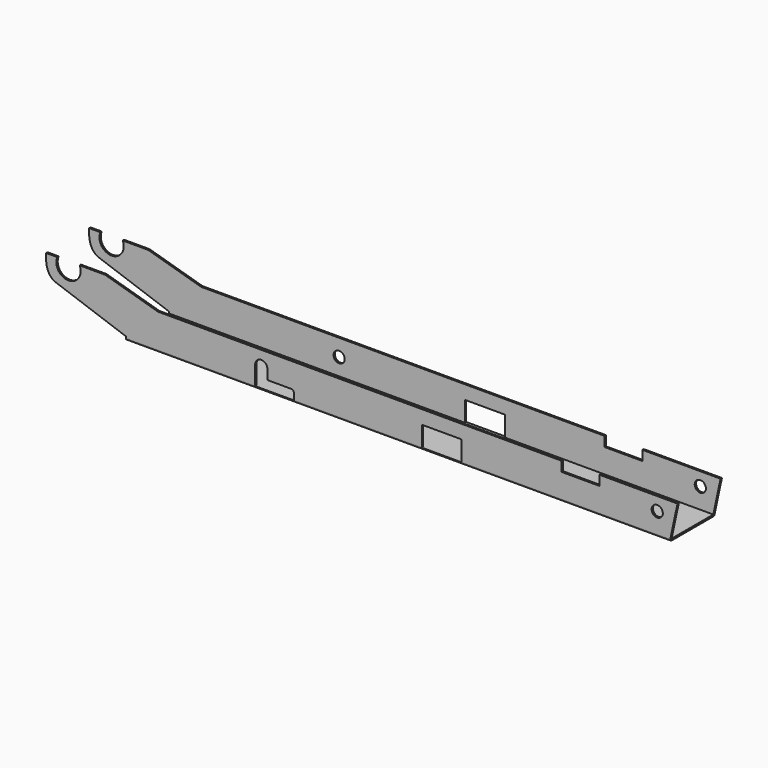
from build123d import *

# Parameters (mm, degrees)
F3_DEPTH  = 0.25
F4_DEPTH  = 0.25
F5_W      = 80.37
F5_H      = 7.7
F6_DEPTH  = 0.25
F8_DEPTH  = 80.37
F10_DEPTH = 80.37
F12_DEPTH = 8.2010001
F13_R     = 0.825
F14_DEPTH = 2


with BuildPart() as f3:
    # F0 (on Front) → F3 (new body)
    with BuildSketch(Plane.XZ):
        with BuildLine():
            Line((-40.185, 0.25), (-40.185, 0))
            Line((-40.185, 0), (-21.105, 0))
            Line((-21.105, 0), (-21.105, 2.7953359774))
            ThreePointArc((-21.105, 2.7953359774), (-20.2003359774, 3.7), (-19.2956719548, 2.7953359774))
            Line((-19.2956719548, 2.7953359774), (-19.2956719548, 1.3671361376))
            Line((-19.2956719548, 1.3671361376), (-15.7349420673, 1.3671361376))
            ThreePointArc((-15.7349420673, 1.3671361376), (-15.5016377941, 1.2704983434), (-15.405, 1.0371940702))
            Line((-15.405, 1.0371940702), (-15.405, 0))
            Line((-15.405, 0), (3.495, 0))
            Line((3.495, 0), (3.495, 2.98))
            Line((3.495, 2.98), (9.395, 2.98))
            Line((9.395, 2.98), (9.395, 0))
            Line((9.395, 0), (40.185, 0))
            Line((40.185, 0), (41.255, 5))
            Line((41.255, 5), (29.705, 5))
            Line((29.705, 5), (29.705, 3.55))
            Line((29.705, 3.55), (24.125, 3.55))
            Line((24.125, 3.55), (24.125, 5))
            Line((24.125, 5), (-35.445, 5))
            Line((-35.445, 5), (-43.265, 7.26))
            Line((-43.265, 7.26), (-47.025, 7.26))
            ThreePointArc((-47.025, 7.26), (-48.675, 4.76), (-50.325, 7.26))
            Line((-50.325, 7.26), (-51.985, 7.26))
            Line((-51.985, 7.26), (-51.985, 6.2604746746))
            add(Edge.make_bspline(
                [(-51.985, 6.2604746746), (-51.8611107918, 4.7384496413), (-51.1533093269, 4.1423325476), (-50.6568033495, 3.9383888915)],
                knots=[0.5835535338, 0.5835535338, 0.5835535338, 0.5835535338, 3.577318367, 3.577318367, 3.577318367, 3.577318367], degree=3))
            Line((-50.6568033495, 3.9383888915), (-40.185, 0.25))
        make_face()
    extrude(amount=F3_DEPTH)



with BuildPart() as f4:
    # F2 (on offset) → F4 (new body)
    with BuildSketch(Plane.XZ.offset(-7.7)):
        with BuildLine():
            Line((3.495, 2.98), (9.395, 2.98))
            Line((9.395, 2.98), (9.395, 0))
            Line((9.395, 0), (40.185, 0))
            Line((40.185, 0), (41.255, 5))
            Line((41.255, 5), (29.705, 5))
            Line((29.705, 5), (29.705, 3.55))
            Line((29.705, 3.55), (24.125, 3.55))
            Line((24.125, 3.55), (24.125, 5))
            Line((24.125, 5), (-35.445, 5))
            Line((-35.445, 5), (-43.265, 7.26))
            Line((-43.265, 7.26), (-47.025, 7.26))
            ThreePointArc((-47.025, 7.26), (-48.675, 4.76), (-50.325, 7.26))
            Line((-50.325, 7.26), (-51.985, 7.26))
            Line((-51.985, 7.26), (-51.985, 6.2604746746))
            add(Edge.make_bspline(
                [(-51.985, 6.2604746746), (-51.8611107918, 4.7384496413), (-51.1533093269, 4.1423325476), (-50.6568033495, 3.9383888915)],
                knots=[0.1631259715, 0.1631259715, 0.1631259715, 0.1631259715, 1, 1, 1, 1], degree=3))
            Line((-50.6568033495, 3.9383888915), (-40.185, 0.25))
            Line((-40.185, 0.25), (-40.185, 0))
            Line((-40.185, 0), (-21.105, 0))
            Line((-21.105, 0), (-15.405, 0))
            Line((-15.405, 0), (3.495, 0))
            Line((3.495, 0), (3.495, 2.98))
        make_face()
    extrude(amount=-F4_DEPTH)


with BuildPart() as f6:
    # F5 (on Top) → F6 (new body)
    with BuildSketch(Plane.XY):
        with Locations((0, 3.85)):
            Rectangle(F5_W, F5_H)
    extrude(amount=-F6_DEPTH)


with BuildPart() as f3_1:
    add(f3.part)

    add(f6.part)  # F8 merges F6
    # F7 (on face) → F8 (join, through all)
    with BuildSketch(Plane(origin=(-40.185, 0, 0), x_dir=(0, -1, 0), z_dir=(-1, 0, 0))):
        with BuildLine():
            Line((0, 0), (0, -0.25))
            ThreePointArc((0, -0.25), (0.1767766953, -0.1767766953), (0.25, 0))
            Line((0.25, 0), (0, 0))
        make_face()
    extrude(amount=-F8_DEPTH)


    add(f4.part)  # F10 merges F4
    # F9 (on face) → F10 (join, through all)
    with BuildSketch(Plane(origin=(-40.185, 0, 0), x_dir=(0, -1, 0), z_dir=(-1, 0, 0))):
        with BuildLine():
            Line((-7.7, 0), (-7.95, 0))
            ThreePointArc((-7.95, 0), (-7.8767766953, -0.1767766953), (-7.7, -0.25))
            Line((-7.7, -0.25), (-7.7, 0))
        make_face()
    extrude(amount=-F10_DEPTH)

    # F11 (on face) → F12 (cut, through all)
    with BuildSketch(Plane.XZ.offset(0.25)):
        with BuildLine():
            ThreePointArc((38.2632873952, 2.2013515081), (38.8466504897, 2.4429884136), (39.0882873952, 3.0263515081))
            ThreePointArc((39.0882873952, 3.0263515081), (38.8466504897, 3.6097146026), (38.2632873952, 3.8513515081))
            Line((38.2632873952, 3.8513515081), (38.2632873952, 2.2013515081))
        make_face()
        with BuildLine():
            Line((38.2632873952, 2.2013515081), (38.2632873952, 3.8513515081))
            ThreePointArc((38.2632873952, 3.8513515081), (37.4382873952, 3.0263515081), (38.2632873952, 2.2013515081))
        make_face()
    extrude(amount=-F12_DEPTH, mode=Mode.SUBTRACT)

    # F13 (on face) → F14 (cut)
    with BuildSketch(Plane(origin=(0, 7.95, 0), x_dir=(-1, 0, 0), z_dir=(0, 1, 0))):
        with Locations((15.0666469708, 2.5)):
            Circle(F13_R)
    extrude(amount=-F14_DEPTH, mode=Mode.SUBTRACT)


solid = f3_1.part
